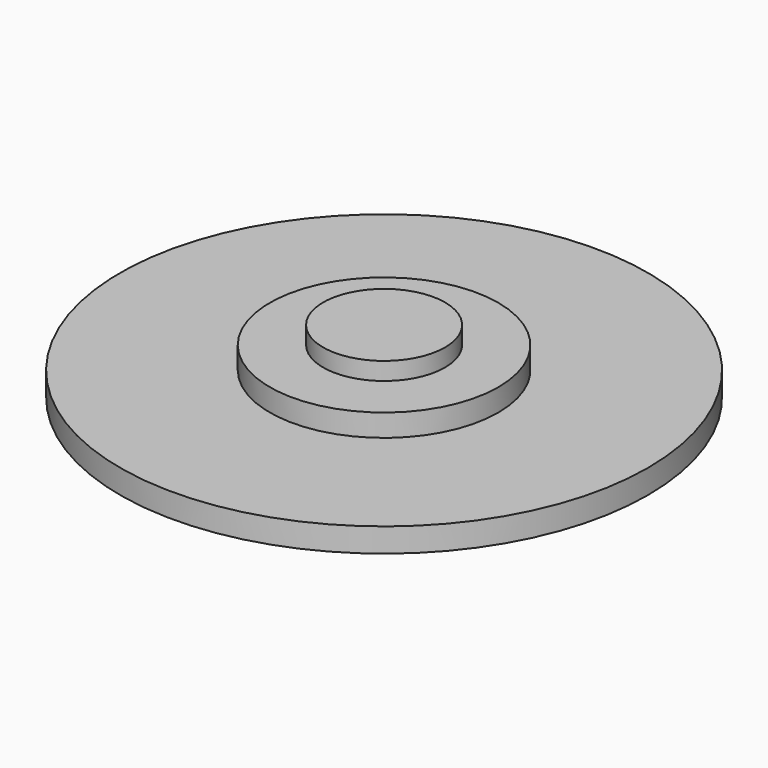
from build123d import *

# Parameters (mm, degrees)
F0_R     = 4.7625
F0_R_2   = 2.613606
F1_DEPTH = 1.9304
F0_R_3   = 11
F2_DEPTH = 1
F3_R     = 2.54
F4_DEPTH = 0.7366


with BuildPart() as f1:
    # F0 (on Top) → F1 (new body)
    with BuildSketch(Plane.XY):
        Circle(F0_R)
        Circle(F0_R_2, mode=Mode.SUBTRACT)
        Circle(F0_R_2)
    extrude(amount=F1_DEPTH)

    # F0 (on Top) → F2 (join)
    with BuildSketch(Plane.XY):
        Circle(F0_R_3)
        Circle(F0_R, mode=Mode.SUBTRACT)
    extrude(amount=F2_DEPTH)

    # F3 (on face) → F4 (join)
    with BuildSketch(Plane.XY.offset(1.9304)):
        Circle(F3_R)
    extrude(amount=F4_DEPTH)


solid = f1.part
